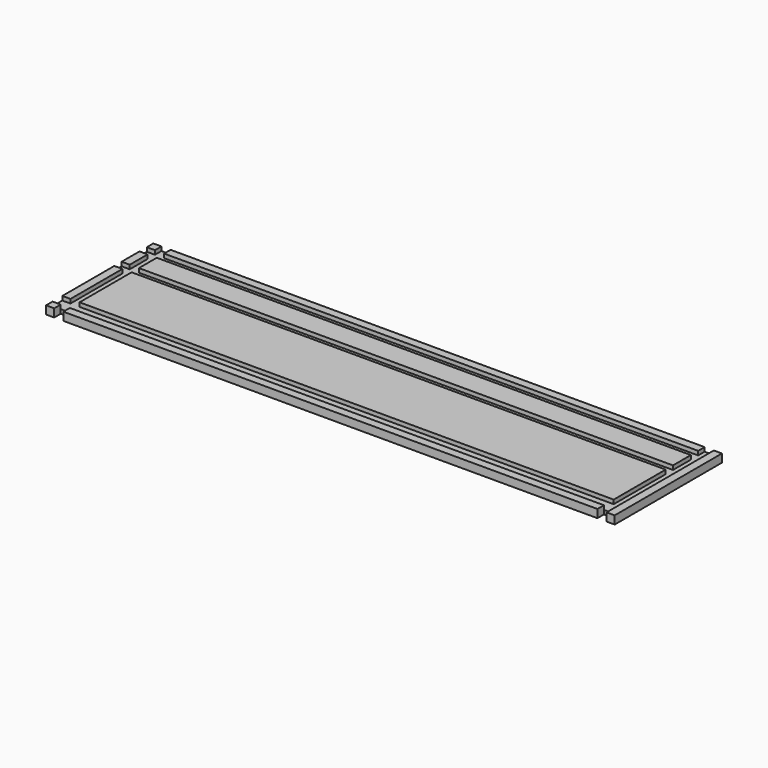
from build123d import *

# Parameters (mm, degrees)
F0_W     = 417.5125
F0_H     = 6.35
F0_W_2   = 7.14375
F0_H_2   = 50.8
F0_H_3   = 17.4625
F0_H_4   = 7.14375
F0_W_3   = 6.35
F0_H_5   = 9.525
F1_DEPTH = 6.35
F2_DEPTH = 3.175


with BuildPart() as f1:
    # F0 (on Top) → F1 (new body)
    with BuildSketch(Plane.XY):
        with Locations((0, 49.2125)):
            Rectangle(F0_W, F0_H)
        with Locations((0, -49.2125)):
            Rectangle(F0_W, F0_H)
        with Locations((-212.328125, -11.1125)):
            Rectangle(F0_W_2, F0_H_2)
        with Locations((-212.328125, 30.1625)):
            Rectangle(F0_W_2, F0_H_3)
        with Locations((0, 42.465625)):
            Rectangle(F0_W, F0_H_4)
        with Locations((0, 17.859375)):
            Rectangle(F0_W, F0_H_4)
        Polygon((222.25, -52.3875), (222.25, 52.3875), (215.9, 52.3875), (215.9, 46.0375), (215.9, 38.89375), (215.9, 21.43125), (215.9, 14.2875), (215.9, -36.5125), (215.9, -46.0375), (215.9, -52.3875), align=None)
        with Locations((-219.075, -11.1125)):
            Rectangle(F0_W_3, F0_H_2)
        with Locations((0, -41.275)):
            Rectangle(F0_W, F0_H_5)
        with Locations((0, -11.1125)):
            Rectangle(F0_W, F0_H_2)
        with Locations((0, 30.1625)):
            Rectangle(F0_W, F0_H_3)
        with Locations((-219.075, 42.465625)):
            Rectangle(F0_W_3, F0_H_4)
        with Locations((-212.328125, 49.2125)):
            Rectangle(F0_W_2, F0_H)
        with Locations((212.328125, 49.2125)):
            Rectangle(F0_W_2, F0_H)
        with Locations((-219.075, 49.2125)):
            Rectangle(F0_W_3, F0_H)
        with Locations((-212.328125, 17.859375)):
            Rectangle(F0_W_2, F0_H_4)
        with Locations((-212.328125, 42.465625)):
            Rectangle(F0_W_2, F0_H_4)
        with Locations((212.328125, 30.1625)):
            Rectangle(F0_W_2, F0_H_3)
        with Locations((-219.075, 30.1625)):
            Rectangle(F0_W_3, F0_H_3)
        with Locations((-219.075, 17.859375)):
            Rectangle(F0_W_3, F0_H_4)
        with Locations((-219.075, -41.275)):
            Rectangle(F0_W_3, F0_H_5)
        with Locations((212.328125, -41.275)):
            Rectangle(F0_W_2, F0_H_5)
        with Locations((212.328125, 42.465625)):
            Rectangle(F0_W_2, F0_H_4)
        with Locations((212.328125, 17.859375)):
            Rectangle(F0_W_2, F0_H_4)
        with Locations((-212.328125, -41.275)):
            Rectangle(F0_W_2, F0_H_5)
        with Locations((-219.075, -49.2125)):
            Rectangle(F0_W_3, F0_H)
        with Locations((212.328125, -11.1125)):
            Rectangle(F0_W_2, F0_H_2)
    extrude(amount=-F1_DEPTH)

    # F0 (on Top) → F2 (cut)
    with BuildSketch(Plane.XY):
        with Locations((-212.328125, -41.275)):
            Rectangle(F0_W_2, F0_H_5)
        with Locations((-212.328125, -11.1125)):
            Rectangle(F0_W_2, F0_H_2)
        with Locations((-212.328125, 17.859375)):
            Rectangle(F0_W_2, F0_H_4)
        with Locations((-212.328125, 30.1625)):
            Rectangle(F0_W_2, F0_H_3)
        with Locations((-212.328125, 42.465625)):
            Rectangle(F0_W_2, F0_H_4)
        with Locations((-212.328125, 49.2125)):
            Rectangle(F0_W_2, F0_H)
        with Locations((-219.075, 42.465625)):
            Rectangle(F0_W_3, F0_H_4)
        with Locations((-219.075, 17.859375)):
            Rectangle(F0_W_3, F0_H_4)
        with Locations((0, 17.859375)):
            Rectangle(F0_W, F0_H_4)
        with Locations((0, 42.465625)):
            Rectangle(F0_W, F0_H_4)
        with Locations((-219.075, -41.275)):
            Rectangle(F0_W_3, F0_H_5)
        with Locations((0, -41.275)):
            Rectangle(F0_W, F0_H_5)
        with Locations((212.328125, -41.275)):
            Rectangle(F0_W_2, F0_H_5)
        with Locations((212.328125, 17.859375)):
            Rectangle(F0_W_2, F0_H_4)
        with Locations((212.328125, 42.465625)):
            Rectangle(F0_W_2, F0_H_4)
        with Locations((212.328125, 49.2125)):
            Rectangle(F0_W_2, F0_H)
        with Locations((212.328125, 30.1625)):
            Rectangle(F0_W_2, F0_H_3)
        with Locations((212.328125, -11.1125)):
            Rectangle(F0_W_2, F0_H_2)
    extrude(amount=-F2_DEPTH, mode=Mode.SUBTRACT)


solid = f1.part
